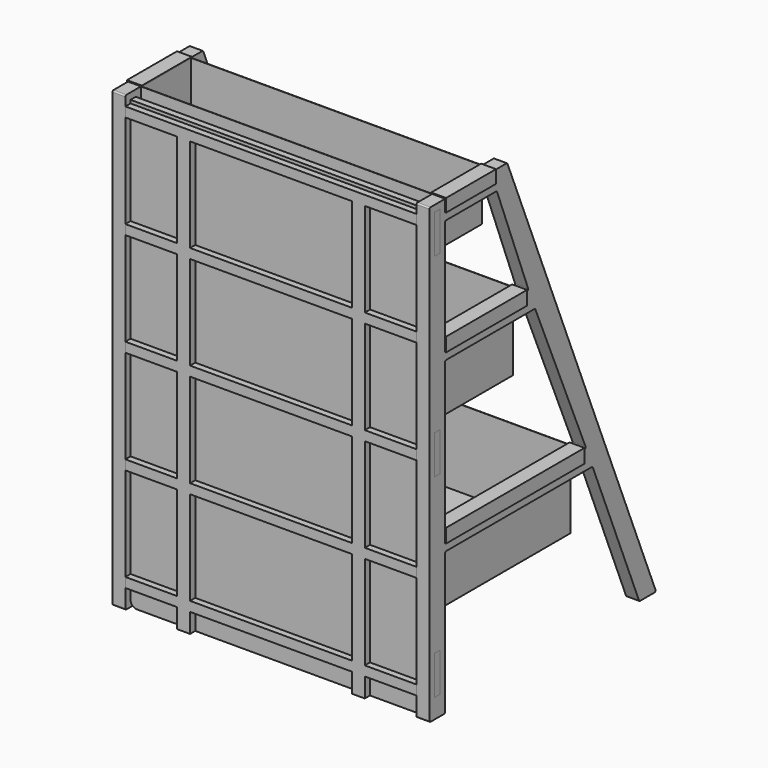
from build123d import *

# Parameters (mm, degrees)
F0_W           = 1
F0_H           = 6
F2_DEPTH       = 2
F3_START       = -45
F3_DEPTH       = 2
F4_START       = -3
F1_W           = 0.15
F1_H           = 1.84
F4_DEPTH       = 9.655
F5_START       = -3
F5_DEPTH       = 15.65292
F6_START       = -3
F6_DEPTH       = 26.7448
F8_START       = -1
F8_DEPTH       = 1
F9_W           = 25
F9_H           = 14.5
F10_DEPTH      = 1
F10_DEPTH_BACK = 1
F12_START      = 62.05
F11_W          = 44.9
F11_H          = 9.555
F12_DEPTH      = 7.95
F13_START      = 39.05
F11_H_2        = 5.997
F13_DEPTH      = 11.95
F14_START      = 13.05
F11_H_3        = 11.092
F14_DEPTH      = 11.95


with BuildPart() as f2:
    # F0 (on Right) → F2 (new body)
    with BuildSketch(Plane.YZ):
        with BuildLine():
            Line((0, 69.8), (0, 0.2))
            ThreePointArc((0, 0.2), (0.0585786438, 0.0585786438), (0.2, 0))
            Line((0.2, 0), (1, 0))
            Line((1, 0), (2.8, 0))
            ThreePointArc((2.8, 0), (2.9414213562, 0.0585786438), (3, 0.2))
            Line((3, 0.2), (3, 21.8))
            ThreePointArc((3, 21.8), (3.0585786438, 21.9414213562), (3.2, 22))
            Line((3.2, 22), (31.3415524094, 22))
            ThreePointArc((31.3415524094, 22), (31.4529081625, 21.966132165), (31.5265501329, 21.8759989625))
            Line((31.5265501329, 21.8759989625), (40.4624940144, 0.1240010375))
            ThreePointArc((40.4624940144, 0.1240010375), (40.5361359848, 0.033867835), (40.6474917379, 0))
            Line((40.6474917379, 0), (43.4583371375, 0))
            ThreePointArc((43.4583371375, 0), (43.6244693025, 0.0886442469), (43.643334861, 0.2759989625))
            Line((43.643334861, 0.2759989625), (15.0509408982, 69.8759989625))
            ThreePointArc((15.0509408982, 69.8759989625), (14.9772989278, 69.966132165), (14.8659431747, 70))
            Line((14.8659431747, 70), (4.0236716159, 70))
            Line((4.0236716159, 70), (0.2, 70))
            ThreePointArc((0.2, 70), (0.0585786438, 69.9414213562), (0, 69.8))
        make_face()
        with Locations((1.5, 6)):
            Rectangle(F0_W, F0_H, mode=Mode.SUBTRACT)
        with Locations((1.5, 36)):
            Rectangle(F0_W, F0_H, mode=Mode.SUBTRACT)
        with BuildLine():
            ThreePointArc((3, 47.8), (3.0585786438, 47.9414213562), (3.2, 48))
            Line((3.2, 48), (20.2496754411, 48))
            ThreePointArc((20.2496754411, 48), (20.3597442859, 47.9669875726), (20.4334767332, 47.8788484941))
            Line((20.4334767332, 47.8788484941), (30.128598824, 25.2788484941))
            ThreePointArc((30.128598824, 25.2788484941), (30.1117851046, 25.0899311552), (29.9447975319, 25))
            Line((29.9447975319, 25), (3.2, 25))
            ThreePointArc((3.2, 25), (3.0585786438, 25.0585786438), (3, 25.2))
            Line((3, 25.2), (3, 47.8))
        make_face(mode=Mode.SUBTRACT)
        with Locations((1.5, 66)):
            Rectangle(F0_W, F0_H, mode=Mode.SUBTRACT)
        with BuildLine():
            Line((3.2, 67), (4.0236716159, 67))
            Line((4.0236716159, 67), (12.8550907955, 67))
            ThreePointArc((12.8550907955, 67), (12.9683280722, 66.9648554494), (13.0417686168, 66.8717731919))
            Line((13.0417686168, 66.8717731919), (19.0395983848, 51.2717731919))
            ThreePointArc((19.0395983848, 51.2717731919), (19.017776013, 51.0867627234), (18.8529205636, 51))
            Line((18.8529205636, 51), (3.2, 51))
            ThreePointArc((3.2, 51), (3.0585786438, 51.0585786438), (3, 51.2))
            Line((3, 51.2), (3, 66.8))
            ThreePointArc((3, 66.8), (3.0585786438, 66.9414213562), (3.2, 67))
        make_face(mode=Mode.SUBTRACT)
    extrude(amount=F2_DEPTH)


with BuildPart() as f3:
    # F0 (on Right) → F3 (new body)
    with BuildSketch(Plane.YZ.offset(F3_START)):
        with BuildLine():
            Line((0, 69.8), (0, 0.2))
            ThreePointArc((0, 0.2), (0.0585786438, 0.0585786438), (0.2, 0))
            Line((0.2, 0), (1, 0))
            Line((1, 0), (2.8, 0))
            ThreePointArc((2.8, 0), (2.9414213562, 0.0585786438), (3, 0.2))
            Line((3, 0.2), (3, 21.8))
            ThreePointArc((3, 21.8), (3.0585786438, 21.9414213562), (3.2, 22))
            Line((3.2, 22), (31.3415524094, 22))
            ThreePointArc((31.3415524094, 22), (31.4529081625, 21.966132165), (31.5265501329, 21.8759989625))
            Line((31.5265501329, 21.8759989625), (40.4624940144, 0.1240010375))
            ThreePointArc((40.4624940144, 0.1240010375), (40.5361359848, 0.033867835), (40.6474917379, 0))
            Line((40.6474917379, 0), (43.4583371375, 0))
            ThreePointArc((43.4583371375, 0), (43.6244693025, 0.0886442469), (43.643334861, 0.2759989625))
            Line((43.643334861, 0.2759989625), (15.0509408982, 69.8759989625))
            ThreePointArc((15.0509408982, 69.8759989625), (14.9772989278, 69.966132165), (14.8659431747, 70))
            Line((14.8659431747, 70), (4.0236716159, 70))
            Line((4.0236716159, 70), (0.2, 70))
            ThreePointArc((0.2, 70), (0.0585786438, 69.9414213562), (0, 69.8))
        make_face()
        with Locations((1.5, 6)):
            Rectangle(F0_W, F0_H, mode=Mode.SUBTRACT)
        with Locations((1.5, 36)):
            Rectangle(F0_W, F0_H, mode=Mode.SUBTRACT)
        with BuildLine():
            ThreePointArc((3, 47.8), (3.0585786438, 47.9414213562), (3.2, 48))
            Line((3.2, 48), (20.2496754411, 48))
            ThreePointArc((20.2496754411, 48), (20.3597442859, 47.9669875726), (20.4334767332, 47.8788484941))
            Line((20.4334767332, 47.8788484941), (30.128598824, 25.2788484941))
            ThreePointArc((30.128598824, 25.2788484941), (30.1117851046, 25.0899311552), (29.9447975319, 25))
            Line((29.9447975319, 25), (3.2, 25))
            ThreePointArc((3.2, 25), (3.0585786438, 25.0585786438), (3, 25.2))
            Line((3, 25.2), (3, 47.8))
        make_face(mode=Mode.SUBTRACT)
        with Locations((1.5, 66)):
            Rectangle(F0_W, F0_H, mode=Mode.SUBTRACT)
        with BuildLine():
            Line((3.2, 67), (4.0236716159, 67))
            Line((4.0236716159, 67), (12.8550907955, 67))
            ThreePointArc((12.8550907955, 67), (12.9683280722, 66.9648554494), (13.0417686168, 66.8717731919))
            Line((13.0417686168, 66.8717731919), (19.0395983848, 51.2717731919))
            ThreePointArc((19.0395983848, 51.2717731919), (19.017776013, 51.0867627234), (18.8529205636, 51))
            Line((18.8529205636, 51), (3.2, 51))
            ThreePointArc((3.2, 51), (3.0585786438, 51.0585786438), (3, 51.2))
            Line((3, 51.2), (3, 66.8))
            ThreePointArc((3, 66.8), (3.0585786438, 66.9414213562), (3.2, 67))
        make_face(mode=Mode.SUBTRACT)
    extrude(amount=-F3_DEPTH)


with BuildPart() as f4:
    # F1 (on Front) → F4 (new body)
    with BuildSketch(Plane.XZ.offset(F4_START)):
        Polygon((-45, 62), (0, 62), (0, 69.7318017483), (0, 70), (-0.15, 70), (-44.85, 70), (-44.85, 68.16), (-45, 68.16), align=None)
        Polygon((-0.15, 70), (0, 70), (0, 70.01), (2, 70.01), (2, 68.16), (2.15, 68.16), (2.15, 70.16), (-0.15, 70.16), align=None)
        with Locations((-44.925, 69.08)):
            Rectangle(F1_W, F1_H)
        Polygon((-45, 70.01), (-45, 70), (-44.85, 70), (-44.85, 70.16), (-47.15, 70.16), (-47.15, 68.16), (-47, 68.16), (-47, 70.01), align=None)
    extrude(amount=-F4_DEPTH)

    # F11 (on Top) → F12 (cut)
    with BuildSketch(Plane.XY.offset(F12_START)):
        with Locations((-22.5, 7.8275)):
            Rectangle(F11_W, F11_H)
    extrude(amount=F12_DEPTH, mode=Mode.SUBTRACT)


with BuildPart() as f5:
    # F1 (on Front) → F5 (new body)
    with BuildSketch(Plane.XZ.offset(F5_START)):
        Polygon((-45, 39), (0, 39), (0, 51), (-0.15, 51), (-44.85, 51), (-45, 51), align=None)
        Polygon((-0.15, 51), (0, 51), (0, 51.15), (2, 51.15), (2, 49.15), (2.15, 49.15), (2.15, 51.3), (-0.15, 51.3), align=None)
        Polygon((-45, 51.15), (-45, 51), (-44.85, 51), (-44.85, 51.3), (-47.15, 51.3), (-47.15, 49.3), (-47, 49.3), (-47, 51.15), align=None)
    extrude(amount=-F5_DEPTH)

    # F11 (on Top) → F13 (cut)
    with BuildSketch(Plane.XY.offset(F13_START)):
        with Locations((-22.5, 15.6035)):
            Rectangle(F11_W, F11_H_2)
        with Locations((-22.5, 7.8275)):
            Rectangle(F11_W, F11_H)
    extrude(amount=F13_DEPTH, mode=Mode.SUBTRACT)


with BuildPart() as f6:
    # F1 (on Front) → F6 (new body)
    with BuildSketch(Plane.XZ.offset(F6_START)):
        Polygon((-45, 13), (0, 13), (0, 25), (-0.15, 25), (-44.85, 25), (-45, 25), align=None)
        Polygon((-45, 25.15), (-45, 25), (-44.85, 25), (-44.85, 25.3), (-47.15, 25.3), (-47.15, 23.15), (-47, 23.15), (-47, 25.15), align=None)
        Polygon((0, 25.3), (0, 25.15), (2, 25.15), (2, 23.15), (2.15, 23.15), (2.15, 25.3), align=None)
        Polygon((-0.15, 25), (0, 25), (0, 25.15), (0, 25.3), (-0.15, 25.3), align=None)
    extrude(amount=-F6_DEPTH)

    # F11 (on Top) → F14 (cut)
    with BuildSketch(Plane.XY.offset(F14_START)):
        with Locations((-22.5, 7.8275)):
            Rectangle(F11_W, F11_H)
        with Locations((-22.5, 15.6035)):
            Rectangle(F11_W, F11_H_2)
        with Locations((-22.5, 24.148)):
            Rectangle(F11_W, F11_H_3)
    extrude(amount=F14_DEPTH, mode=Mode.SUBTRACT)


with BuildPart() as f8:
    # F7 (on Front) → F8 (new body)
    with BuildSketch(Plane.XZ.offset(F8_START)):
        with BuildLine():
            Line((-44, 0), (-1, 0))
            ThreePointArc((-1, 0), (-0.2928932188, 0.2928932188), (0, 1))
            Line((0, 1), (0, 3))
            Line((0, 3), (2, 3))
            Line((2, 3), (2, 9))
            Line((2, 9), (0, 9))
            Line((0, 9), (0, 33))
            Line((0, 33), (2, 33))
            Line((2, 33), (2, 39))
            Line((2, 39), (0, 39))
            Line((0, 39), (0, 63))
            Line((0, 63), (2, 63))
            Line((2, 63), (2, 69))
            Line((2, 69), (0, 69))
            Line((0, 69), (-45, 69))
            Line((-45, 69), (-47, 69))
            Line((-47, 69), (-47, 63))
            Line((-47, 63), (-45, 63))
            Line((-45, 63), (-45, 39))
            Line((-45, 39), (-47, 39))
            Line((-47, 39), (-47, 33))
            Line((-47, 33), (-45, 33))
            Line((-45, 33), (-45, 9))
            Line((-45, 9), (-47, 9))
            Line((-47, 9), (-47, 3))
            Line((-47, 3), (-45, 3))
            Line((-45, 3), (-45, 1))
            ThreePointArc((-45, 1), (-44.7071067812, 0.2928932188), (-44, 0))
        make_face()
    extrude(amount=-F8_DEPTH)

    # F9 (on face) → F10 (join, two sides)
    with BuildSketch(Plane.XZ.offset(-1)) as f10_sk:
        Polygon((-45, 4.5), (-45, 3), (-37, 3), (-37, 0), (-35, 0), (-35, 3), (-10, 3), (-10, 0), (-8, 0), (-8, 3), (0, 3), (0, 4.5), (-8, 4.5), (-8, 19), (0, 19), (0, 20.5), (-8, 20.5), (-8, 35), (0, 35), (0, 36.5), (-8, 36.5), (-8, 51), (0, 51), (0, 52.5), (-8, 52.5), (-8, 67), (0, 67), (0, 68.5), (-45, 68.5), (-45, 67), (-37, 67), (-37, 52.5), (-45, 52.5), (-45, 51), (-37, 51), (-37, 36.5), (-45, 36.5), (-45, 35), (-37, 35), (-37, 20.5), (-45, 20.5), (-45, 19), (-37, 19), (-37, 4.5), align=None)
        with Locations((-22.5, 11.75)):
            Rectangle(F9_W, F9_H, mode=Mode.SUBTRACT)
        with Locations((-22.5, 27.75)):
            Rectangle(F9_W, F9_H, mode=Mode.SUBTRACT)
        with Locations((-22.5, 43.75)):
            Rectangle(F9_W, F9_H, mode=Mode.SUBTRACT)
        with Locations((-22.5, 59.75)):
            Rectangle(F9_W, F9_H, mode=Mode.SUBTRACT)
    extrude(amount=F10_DEPTH)
    extrude(f10_sk.sketch, amount=-F10_DEPTH_BACK)


solid = Compound([f2.part, f3.part, f4.part, f5.part, f6.part, f8.part])
